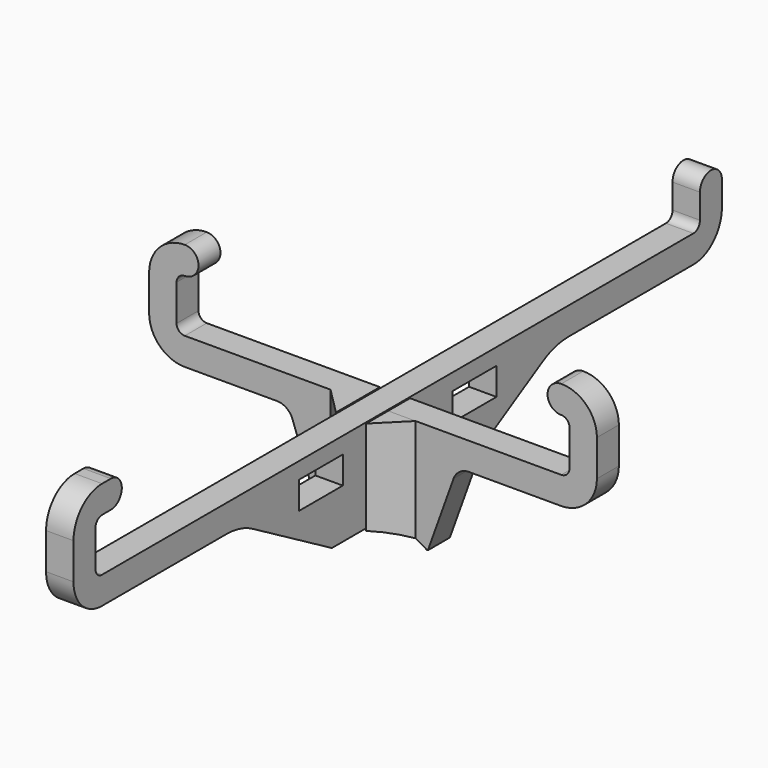
from build123d import *

# Parameters (mm, degrees)
SKETCH_W     = 10
SKETCH_H     = 5
PAD_DEPTH    = 2.5
PAD001_DEPTH = 2.5
PAD002_DEPTH = 20
POCKET_DEPTH = 10


with BuildPart() as vertical:
    # Sketch → Pad (new body, symmetric)
    with BuildSketch(Plane.YZ):
        with BuildLine():
            Line((73.85, 18.5), (73.85, 23.000007))
            ThreePointArc((73.85, 23.000007), (71.349996, 25.500007), (68.85, 23))
            Line((68.85, 18.50001), (68.85, 23))
            ThreePointArc((67.350003, 17), (68.410665, 17.439344), (68.85, 18.50001))
            Line((-67.350002, 17), (67.350003, 17))
            ThreePointArc((-68.85, 18.50001), (-68.410664, 17.439344), (-67.350002, 17))
            Line((-68.85, 25.099989), (-68.85, 18.50001))
            ThreePointArc((-67.350002, 26.6), (-68.410665, 26.160655), (-68.85, 25.099989))
            Line((-67.350002, 26.6), (-65.350002, 26.6))
            ThreePointArc((-65.350002, 26.6), (-62.850002, 29.099999), (-65.350001, 31.6))
            Line((-65.350001, 31.6), (-67.349968, 31.6))
            ThreePointArc((-67.349968, 31.6), (-71.946183, 29.696205), (-73.85, 25.099999))
            Line((-73.85, 18.50001), (-73.85, 25.099999))
            ThreePointArc((-73.85, 18.50001), (-71.946198, 13.903809), (-67.35, 12))
            Line((-67.35, 12), (-38.96077, 12))
            ThreePointArc((-33, 10.392302), (-35.873884, 11.59102), (-38.96077, 12))
            Line((-15, 0), (-33, 10.392302))
            Line((-15, 0), (-2.75, 0))
            Line((-2.75, 0), (-2.75, 8.7))
            Line((-2.75, 8.7), (2.75, 8.7))
            Line((2.75, 8.7), (2.75, 0))
            Line((2.75, 0), (15, 0))
            Line((15, 0), (33, 10.392302))
            ThreePointArc((38.96077, 12), (35.873884, 11.59102), (33, 10.392302))
            Line((38.96077, 12), (67.35, 12))
            ThreePointArc((67.35, 12), (71.946194, 13.903806), (73.85, 18.5))
        make_face()
        with Locations((-17.5, 11.5)):
            Rectangle(SKETCH_W, SKETCH_H, mode=Mode.SUBTRACT)
        with Locations((17.5, 11.5)):
            Rectangle(SKETCH_W, SKETCH_H, mode=Mode.SUBTRACT)
    extrude(amount=PAD_DEPTH, both=True)


with BuildPart() as fusion:
    # Sketch001 → Pad001 (new body, symmetric)
    with BuildSketch(Plane.XZ):
        with BuildLine():
            Line((17.5, 11.999988), (34.300006, 12))
            ThreePointArc((34.300006, 12), (38.896196, 13.903808), (40.8, 18.499998))
            Line((40.8, 25.099979), (40.8, 18.499998))
            ThreePointArc((40.8, 25.099979), (38.896194, 29.696171), (34.300002, 31.599977))
            ThreePointArc((34.300002, 31.599977), (31.800002, 29.099977), (34.300002, 26.599977))
            ThreePointArc((35.8, 25.099979), (35.36066, 26.160637), (34.300002, 26.599977))
            Line((35.8, 18.499998), (35.8, 25.099979))
            ThreePointArc((34.300002, 17), (35.36066, 17.43934), (35.8, 18.499998))
            Line((2.75, 17), (34.300002, 17))
            Line((2.75, 8.3), (2.75, 17))
            Line((-2.75, 8.3), (2.75, 8.3))
            Line((-2.75, 16.999988), (-2.75, 8.3))
            Line((-34.3, 16.999988), (-2.75, 16.999988))
            ThreePointArc((-35.8, 18.499998), (-35.360664, 17.439332), (-34.3, 16.999988))
            Line((-35.8, 18.499998), (-35.8, 25.099979))
            ThreePointArc((-34.300002, 26.599988), (-35.360664, 26.160644), (-35.8, 25.099979))
            ThreePointArc((-34.300002, 26.599988), (-31.800002, 29.099988), (-34.300002, 31.599988))
            ThreePointArc((-34.300002, 31.599988), (-38.896198, 29.696178), (-40.8, 25.099978))
            Line((-40.8, 25.099978), (-40.8, 18.499999))
            ThreePointArc((-40.8, 18.499999), (-38.896198, 13.903798), (-34.300002, 11.999988))
            Line((-34.300002, 11.999988), (-17.5, 11.999988))
            ThreePointArc((-14.676753, 10.014519), (-15.774253, 11.453923), (-17.5, 11.999988))
            Line((-14.676753, 10.014519), (-10, -3))
            Line((-10, -3), (10, -3))
            Line((10, -3), (14.676754, 10.014519))
            ThreePointArc((17.5, 11.999988), (15.774254, 11.453922), (14.676754, 10.014519))
        make_face()
    extrude(amount=PAD001_DEPTH, both=True)

    # Sketch002 → Pad002 (new body)
    with BuildSketch(Plane(origin=(0, 0, 16.999988), x_dir=(-1, 0, 0), z_dir=(0, 0, 1))):
        Polygon((-7.75, 2.5), (-2.75, 7.5), (-2.75, 2.5), align=None)
        Polygon((2.75, 7.5), (2.75, 2.5), (7.75, 2.5), align=None)
    extrude(amount=-PAD002_DEPTH)

    # Sketch003 → Pocket (cut)
    with BuildSketch(Plane(origin=(0, 2.5, 0), x_dir=(1, 0, 0), z_dir=(0, 1, 0))):
        with BuildLine():
            ThreePointArc((-10, 3.138593), (0, 0), (10, 3.138593))
            Line((-10, 3.138593), (10, 3.138593))
        make_face()
    extrude(amount=-POCKET_DEPTH, mode=Mode.SUBTRACT)

    # Fusion: union Vertical
    add(vertical.part)


solid = fusion.part
